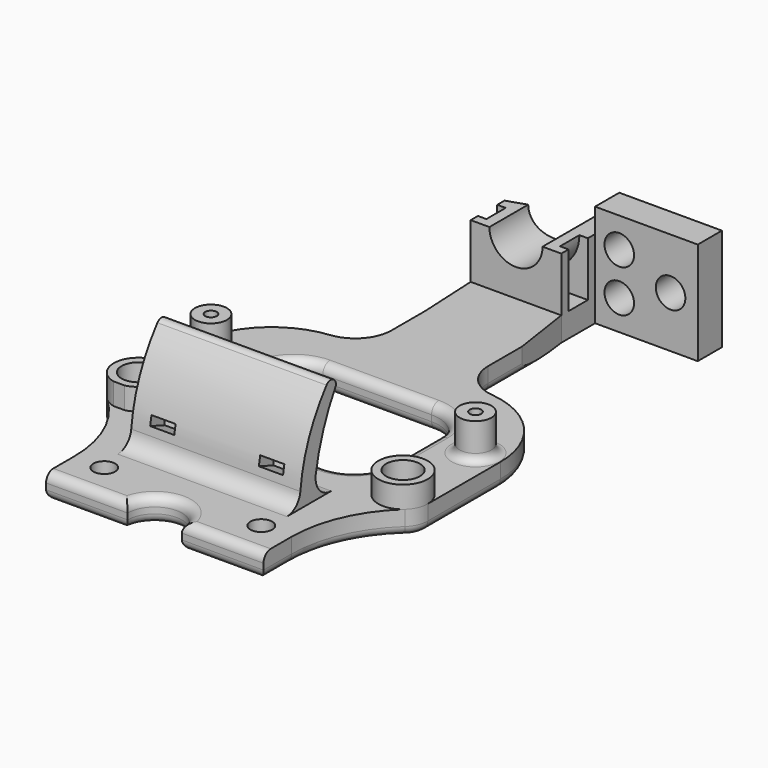
from build123d import *

# Parameters (mm, degrees)
SKETCH_R             = 1.8
SKETCH_R_2           = 0.95
PAD_DEPTH            = 4
SKETCH001_R          = 2.65
SKETCH001_R_2        = 0.95
PAD001_DEPTH         = 6
FILLET_R             = 1.3
PAD002_DEPTH         = 9
PAD005_DEPTH         = 10
POCKET005_DEPTH      = 17.001
POCKET_DEPTH         = 15
POCKET_DEPTH_BACK    = 5
POCKET001_DEPTH      = 4
SKETCH012_R          = 2.45
POCKET006_DEPTH      = 8
SKETCH005_R          = 4.1
SKETCH005_R_2        = 2.8
PAD003_DEPTH         = 3.6
SKETCH006_W          = 28
SKETCH006_H          = 7.5
PAD004_DEPTH         = 18
SKETCH008_W          = 4
SKETCH008_H          = 1.5
POCKET003_DEPTH      = 7
POCKET003_DEPTH_BACK = 4
POCKET002_DEPTH      = 40.001
FILLET001_R          = 2.8
FILLET002_R          = 1.1
POCKET004_DEPTH      = 4.001
FILLET003_R          = 1.5


with BuildPart() as part:
    # Sketch → Pad (new body)
    with BuildSketch(Plane.XY):
        with BuildLine():
            Line((-18, -5.8), (18, -5.8))
            Line((18, -5.8), (18, 0))
            ThreePointArc((24.672199, 15.179253), (19.741667, 8.290476), (18, 0))
            ThreePointArc((24.672199, 15.179253), (25.6534, 16.550154), (26, 18.2))
            Line((26, 18.2), (26, 33.2))
            ThreePointArc((26, 33.2), (22.377595, 42.639836), (13.370166, 47.233149))
            ThreePointArc((8, 53.2), (9.540235, 49.186212), (13.370166, 47.233149))
            Line((8, 53.2), (8, 60.2))
            Line((8, 60.2), (6.5, 70.2))
            Line((6.5, 70.2), (6.5, 77.2))
            Line((-8.5, 77.2), (6.5, 77.2))
            Line((-8.5, 70.2), (-8.5, 77.2))
            Line((-8, 60.2), (-8.5, 70.2))
            Line((-8, 53.2), (-8, 60.2))
            ThreePointArc((-13.370166, 47.233149), (-9.540235, 49.186212), (-8, 53.2))
            ThreePointArc((-13.370166, 47.233149), (-22.377595, 42.639836), (-26, 33.2))
            Line((-26, 18.2), (-26, 33.2))
            ThreePointArc((-26, 18.2), (-25.6534, 16.550154), (-24.672199, 15.179253))
            ThreePointArc((-18, 0), (-19.741667, 8.290476), (-24.672199, 15.179253))
            Line((-18, -5.8), (-18, 0))
        make_face()
        with Locations((13, 0)):
            Circle(SKETCH_R, mode=Mode.SUBTRACT)
        with Locations((-13, 0)):
            Circle(SKETCH_R, mode=Mode.SUBTRACT)
        with Locations((-21.9, 18.2)):
            Circle(SKETCH_R, mode=Mode.SUBTRACT)
        with Locations((21.9, 18.2)):
            Circle(SKETCH_R, mode=Mode.SUBTRACT)
        with Locations((-21.9, 33.2)):
            Circle(SKETCH_R_2, mode=Mode.SUBTRACT)
        with Locations((21.9, 33.2)):
            Circle(SKETCH_R_2, mode=Mode.SUBTRACT)
    extrude(amount=PAD_DEPTH)

    # Sketch001 (on Face28 of Pad) → Pad001 (join)
    with BuildSketch(Plane.XY.offset(4)):
        with Locations((-21.9, 33.2)):
            Circle(SKETCH001_R)
        with Locations((-21.9, 33.2)):
            Circle(SKETCH001_R_2, mode=Mode.SUBTRACT)
        with Locations((21.9, 33.2)):
            Circle(SKETCH001_R)
        with Locations((21.9, 33.2)):
            Circle(SKETCH001_R_2, mode=Mode.SUBTRACT)
    extrude(amount=PAD001_DEPTH)

    # Fillet
    fillet_edges = [part.edges().sort_by_distance(p)[0] for p in [
        (19.25, 33.2, 4),
        (-24.55, 33.2, 4),
    ]]
    fillet(fillet_edges, radius=FILLET_R)

    # Sketch002 (on Face1 of Fillet) → Pad002 (join)
    with BuildSketch(Plane.XY.offset(4)):
        Polygon((-8.5, 70.2), (6.5, 70.2), (6.5, 71.7), (5.1, 71.7), (5.1, 75.7), (6.5, 75.7), (6.5, 77.2), (-8.5, 77.2), (-8.5, 75.7), (-7.1, 75.7), (-7.1, 71.7), (-8.5, 71.7), align=None)
    extrude(amount=PAD002_DEPTH)

    # Sketch010 (on Face44 of Pad002) → Pad005 (join)
    with BuildSketch(Plane(origin=(0, 77.2, 0), x_dir=(-1, 0, 0), z_dir=(0, 1, 0))):
        Polygon((-23.5, 17), (-23.5, 0), (8.5, 0), (8.5, 13), (-6.5, 13), (-6.5, 17), align=None)
    extrude(amount=PAD005_DEPTH)

    # Sketch011 (on Face48 of Pad005) → Pocket005 (cut, through all)
    with BuildSketch(Plane(origin=(0, 0, 0), x_dir=(1, 0, 0), z_dir=(0, 0, -1))):
        Polygon((-8.5, -87.2), (-8.5, -77.2), (6.5, -82.2), (23.5, -82.2), (23.5, -87.2), align=None)
    extrude(amount=-POCKET005_DEPTH, mode=Mode.SUBTRACT)

    # Sketch003 (on Face44 of Pad002) → Pocket (cut, two sides)
    with BuildSketch(Plane(origin=(0, 77.2, 0), x_dir=(-1, 0, 0), z_dir=(0, 1, 0))) as pocket_sk:
        with BuildLine():
            ThreePointArc((-3.4, 13), (1, 8.6), (5.4, 13))
            Line((-3.4, 13), (5.4, 13))
        make_face()
    extrude(amount=-POCKET_DEPTH, mode=Mode.SUBTRACT)
    extrude(pocket_sk.sketch, amount=POCKET_DEPTH_BACK, mode=Mode.SUBTRACT)

    # Sketch004 (on Face11 of Pocket) → Pocket001 (cut)
    with BuildSketch(Plane(origin=(0, 71.7, 0), x_dir=(-1, 0, 0), z_dir=(0, 1, 0))):
        with BuildLine():
            ThreePointArc((-5.1, 13), (1, 6.9), (7.1, 13))
            Line((7.1, 4), (7.1, 13))
            Line((-5.1, 4), (7.1, 4))
            Line((-5.1, 13), (-5.1, 4))
        make_face()
    extrude(amount=POCKET001_DEPTH, mode=Mode.SUBTRACT)

    # Sketch012 (on Face25 of Pocket001) → Pocket006 (cut)
    with BuildSketch(Plane(origin=(0, 82.2, 0), x_dir=(-1, 0, 0), z_dir=(0, 1, 0))):
        with Locations((-10.5, 12)):
            Circle(SKETCH012_R)
        with Locations((-10.5, 5)):
            Circle(SKETCH012_R)
        with Locations((-19, 8.5)):
            Circle(SKETCH012_R)
    extrude(amount=-POCKET006_DEPTH, mode=Mode.SUBTRACT)

    # Sketch005 (on Face5 of Pocket001) → Pad003 (join)
    with BuildSketch(Plane.XY.offset(4)):
        with Locations((-21.9, 18.2)):
            Circle(SKETCH005_R)
        with Locations((-21.9, 18.2)):
            Circle(SKETCH005_R_2, mode=Mode.SUBTRACT)
        with Locations((21.9, 18.2)):
            Circle(SKETCH005_R)
        with Locations((21.9, 18.2)):
            Circle(SKETCH005_R_2, mode=Mode.SUBTRACT)
    extrude(amount=PAD003_DEPTH)

    # Sketch006 (on Face5 of Pad003) → Pad004 (join)
    with BuildSketch(Plane.XY.offset(4)):
        with Locations((0, 10.45)):
            Rectangle(SKETCH006_W, SKETCH006_H)
    extrude(amount=PAD004_DEPTH)

    # Sketch008 (on Face37 of Pad004) → Pocket003 (cut, two sides)
    with BuildSketch(Plane(origin=(0, 6.7, 0), x_dir=(1, 0, 0), z_dir=(0, -0.939693, 0.34202))) as pocket003_sk:
        with Locations((-9, 8.233519)):
            Rectangle(SKETCH008_W, SKETCH008_H)
        with Locations((9, 8.233519)):
            Rectangle(SKETCH008_W, SKETCH008_H)
    extrude(amount=-POCKET003_DEPTH, mode=Mode.SUBTRACT)
    extrude(pocket003_sk.sketch, amount=POCKET003_DEPTH_BACK, mode=Mode.SUBTRACT)

    # Sketch007 (on Face38 of Pad004) → Pocket002 (cut, through all)
    with BuildSketch(Plane.YZ.offset(14)):
        with BuildLine():
            ThreePointArc((14.2, 22), (8.65, 13.75), (6.7, 4))
            Line((6.7, 22), (6.7, 4))
            Line((14.2, 22), (6.7, 22))
        make_face()
        with BuildLine():
            ThreePointArc((14.2, 19), (11.584131, 13.580839), (10.020277, 7.770122))
            ThreePointArc((10.020277, 7.770122), (10.734008, 5.146132), (13.2, 4))
            Line((13.2, 4), (14.2, 4))
            Line((14.2, 4), (14.2, 19))
        make_face()
    extrude(amount=-POCKET002_DEPTH, mode=Mode.SUBTRACT)

    # Fillet001
    fillet001_edges = [part.edges().sort_by_distance(p)[0] for p in [
        (0, 6.7, 4),
    ]]
    fillet(fillet001_edges, radius=FILLET001_R)

    # Fillet002
    fillet002_edges = [part.edges().sort_by_distance(p)[0] for p in [
        (0, 14.2, 22),
    ]]
    fillet(fillet002_edges, radius=FILLET002_R)

    # Sketch009 (on Face6 of Fillet002) → Pocket004 (cut, through all)
    with BuildSketch(Plane.XY.offset(4)):
        with BuildLine():
            ThreePointArc((4.5, -5.8), (0, -1.3), (-4.5, -5.8))
            Line((-4.5, -5.8), (4.5, -5.8))
        make_face()
        with BuildLine():
            Line((-15, 34.233149), (-15, 24.2))
            ThreePointArc((-15, 24.2), (-13.242641, 19.957359), (-9, 18.2))
            Line((-9, 18.2), (9, 18.2))
            ThreePointArc((9, 18.2), (13.242641, 19.957359), (15, 24.2))
            Line((15, 24.2), (15, 34.233149))
            ThreePointArc((15, 34.233149), (13.242641, 38.47579), (9, 40.233149))
            Line((9, 40.233149), (-9, 40.233149))
            ThreePointArc((-9, 40.233149), (-13.242641, 38.47579), (-15, 34.233149))
        make_face()
    extrude(amount=-POCKET004_DEPTH, mode=Mode.SUBTRACT)

    # Fillet003
    fillet003_edges = [part.edges().sort_by_distance(p)[0] for p in [
        (-11.25, -5.8, 0),
        (0, -1.3, 0),
        (11.25, -5.8, 0),
        (-18, -2.9, 0),
        (18, -2.9, 0),
        (0, 18.2, 0),
        (0, 40.233149, 4),
        (-11.25, -5.8, 4),
        (11.25, -5.8, 4),
        (0, -1.3, 4),
    ]]
    fillet(fillet003_edges, radius=FILLET003_R)


solid = part.part
